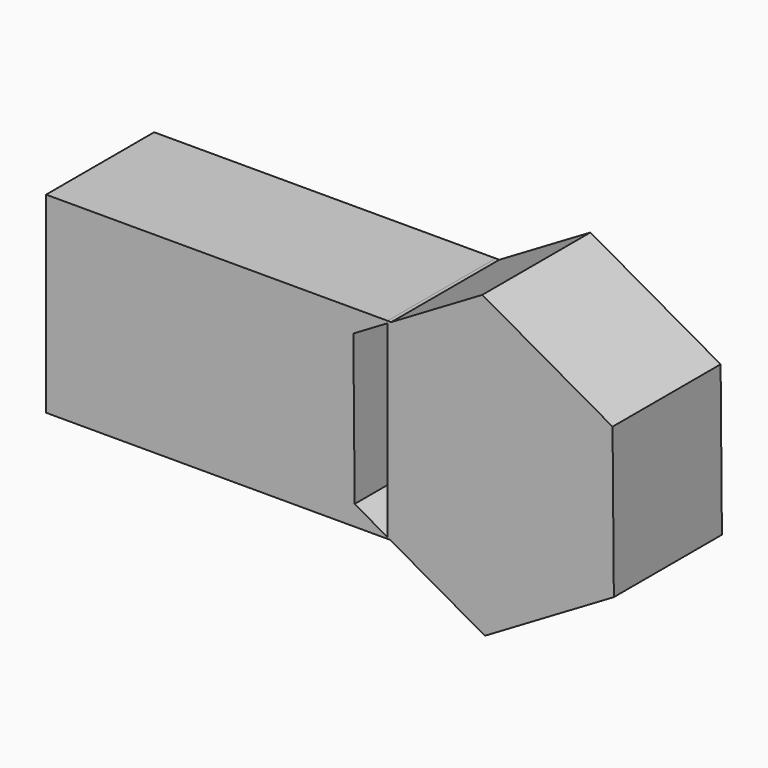
from build123d import *

# Parameters (mm, degrees)
F1_DEPTH = 25


with BuildPart() as f1:
    # F0 (on Front) → F1 (new body)
    with BuildSketch(Plane.XZ):
        Polygon((-29.5835770667, 21.120544523), (-92.7848517895, 21.120544523), (-92.7848517895, -14.4231375307), (-29.5835770667, -14.4231375307), (-29.5835770667, -14.1539673671), (-35.6757021929, -10.7068624223), (-35.9161962663, 16.9877214605), (-29.5835770667, 20.7175518679), align=None)
        with BuildLine():
            Line((-12.0522301133, 31.043287379), (-28.9203807503, 21.1081658791))
            ThreePointArc((-28.9203807503, 21.1081658791), (-11.8120127308, 3.2495342407), (-29.1186193274, -14.4170542356))
            Line((-29.1186193274, -14.4170542356), (-11.5712419664, -24.3458803867))
            Line((-11.5712419664, -24.3458803867), (12.2927241867, -10.2903144682))
            Line((12.2927241867, -10.2903144682), (12.0522301133, 17.4042694147))
            Line((12.0522301133, 17.4042694147), (-12.0522301133, 31.043287379))
        make_face()
        with BuildLine():
            ThreePointArc((-28.9203807503, 21.1081658791), (-29.2519211513, 21.1174495925), (-29.5835770667, 21.120544523))
            Line((-29.5835770667, 21.120544523), (-29.5835770667, 20.7175518679))
            Line((-29.5835770667, 20.7175518679), (-28.9203807503, 21.1081658791))
        make_face()
        with BuildLine():
            Line((-29.5835770667, -14.1539673671), (-29.5835770667, -14.4231375307))
            ThreePointArc((-29.5835770667, -14.4231375307), (-29.3510783001, -14.4216166418), (-29.1186193274, -14.4170542356))
            Line((-29.1186193274, -14.4170542356), (-29.5835770667, -14.1539673671))
        make_face()
        with BuildLine():
            Line((-28.9203807503, 21.1081658791), (-29.5835770667, 20.7175518679))
            Line((-29.5835770667, 20.7175518679), (-29.5835770667, -14.1539673671))
            Line((-29.5835770667, -14.1539673671), (-29.1186193274, -14.4170542356))
            ThreePointArc((-29.1186193274, -14.4170542356), (-11.8120127308, 3.2495342407), (-28.9203807503, 21.1081658791))
        make_face()
    extrude(amount=F1_DEPTH)


solid = f1.part
